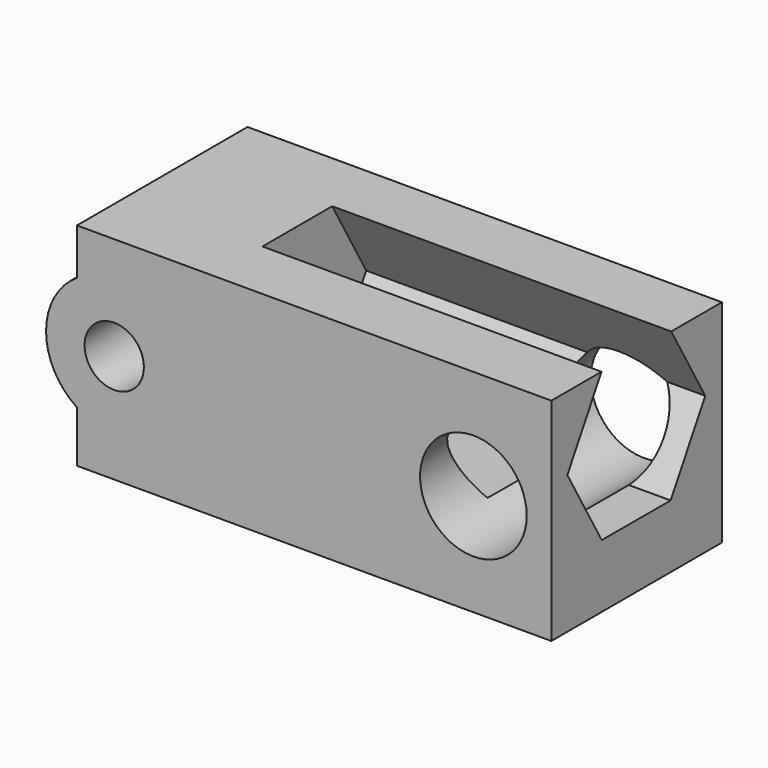
from build123d import *

# Parameters (mm, degrees)
F0_R     = 12.7
F0_R_2   = 7.065837
F1_DEPTH = 50.8
F3_DEPTH = 80.772


with BuildPart() as f1:
    # F0 (on Front) → F1 (new body)
    with BuildSketch(Plane.XZ):
        Polygon((58.696682, 24.570704), (-54.328558, 24.570704), (-54.328558, 13.587744), (-54.328558, -13.587744), (-54.328558, -25.844741), (58.696682, -25.844741), align=None)
        with Locations((40.132153, -1.456042)):
            Circle(F0_R, mode=Mode.SUBTRACT)
        with Locations((-45.444705, 0)):
            Circle(F0_R_2, mode=Mode.SUBTRACT)
        with BuildLine():
            Line((-54.328558, -13.587744), (-54.328558, 13.587744))
            ThreePointArc((-54.328558, 13.587744), (-61.678917, 0), (-54.328558, -13.587744))
        make_face()
    extrude(amount=F1_DEPTH)

    # F2 (on face) → F3 (cut)
    with BuildSketch(Plane.YZ.offset(58.696682)):
        Polygon((-46.031717, 7.029241), (-35.797476, -10.768648), (-15.266932, -10.80448), (-4.970628, 6.957576), (-15.098626, 24.570704), (-35.863286, 24.570704), align=None)
    extrude(amount=-F3_DEPTH, mode=Mode.SUBTRACT)


solid = f1.part
